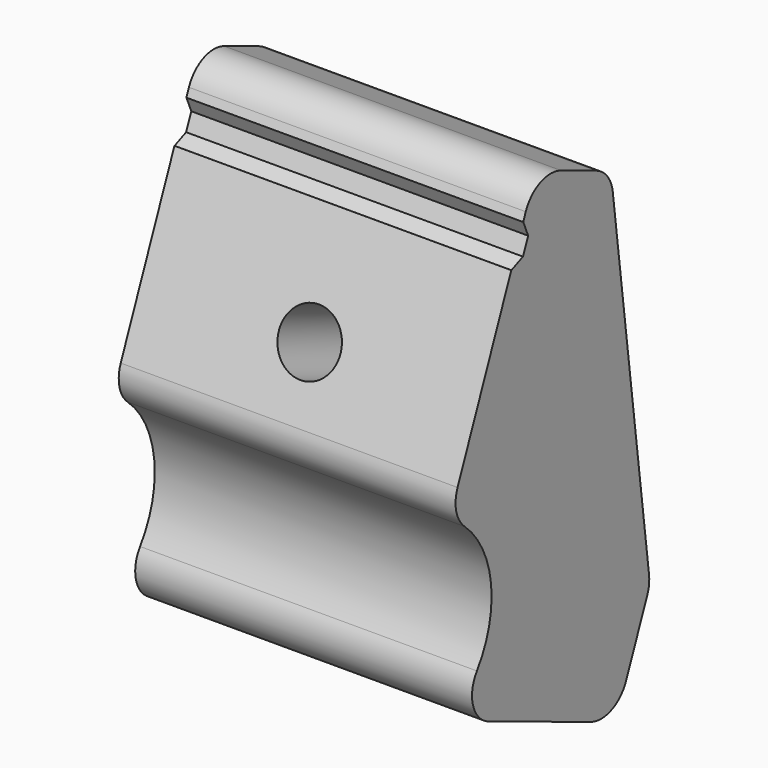
from build123d import *

# Parameters (mm, degrees)
PAD001_DEPTH        = 30
HOLE002_D           = 5.5
HOLE002_CSINK_D     = 10
HOLE002_CSINK_ANGLE = 90
SKETCH004_R         = 6.501169
SKETCH004_R_2       = 5.481256
POCKET_DEPTH        = 19.5081110955
SKETCH007_W         = 3.5
SKETCH007_H         = 30
POCKET002_DEPTH     = 1
CHAMFER_SIZE        = 0.99
FILLET003_R         = 3


with BuildPart() as part:
    # Sketch002 → Pad001 (new body)
    with BuildSketch(Plane.YZ):
        with BuildLine():
            Line((-188.1964293023, 612.8903873712), (-178.5707253545, 636.394612861))
            Line((-170.2420872134, 632.9837791337), (-178.5707253545, 636.394612861))
            Line((-165.8796609268, 598.7789660675), (-170.2420872134, 632.9837791337))
            Line((-169.6694761794, 589.5249236885), (-165.8796609268, 598.7789660675))
            Line((-188.1775609373, 597.1045541936), (-169.6694761794, 589.5249236885))
            ThreePointArc((-188.1775609373, 597.1045541936), (-183.51155378, 605.0030592067), (-188.1964293023, 612.8903873712))
        make_face()
    extrude(amount=PAD001_DEPTH)

    # Hole002 (through all)
    with Locations(Plane(origin=(0, -366.8597668241, 150.2403687946), x_dir=(0, 0.3789815253, 0.9254042379), z_dir=(0, 0.9254042379, -0.3789815253))):
        with Locations((-506.967621, 13.13074), (504.2472658549, 15)):
            CounterSinkHole(HOLE002_D / 2, HOLE002_CSINK_D / 2, counter_sink_angle=HOLE002_CSINK_ANGLE)

    # Sketch004 (on DatumPlane) → Pocket (cut, through all)
    with BuildSketch(Plane(origin=(0, -366.8597668241, 150.2403687946), x_dir=(0, 0.3789815253, 0.9254042379), z_dir=(0, 0.9254042379, -0.3789815253))):
        with Locations((-506.967621, 13.13074)):
            Circle(SKETCH004_R)
        with Locations((504.2472658549, 15)):
            Circle(SKETCH004_R_2)
    extrude(amount=POCKET_DEPTH, mode=Mode.SUBTRACT)

    # Sketch007 (on Face6 of Pocket) → Pocket002 (cut)
    with BuildSketch(Plane(origin=(0, -376.1138092031, 154.0301840472), x_dir=(0, -0.3789815253, -0.9254042379), z_dir=(0, -0.9254042379, 0.3789815253))):
        with Locations((-515.7472658549, 15)):
            Rectangle(SKETCH007_W, SKETCH007_H)
    extrude(amount=-POCKET002_DEPTH, mode=Mode.SUBTRACT)

    # Chamfer
    chamfer_edges = [part.edges().sort_by_distance(p)[0] for p in [
        (15, -179.066502, 632.545365),
        (15, -180.392937, 629.306451),
    ]]
    chamfer(chamfer_edges, length=CHAMFER_SIZE)

    # Fillet003
    fillet003_edges = [part.edges().sort_by_distance(p)[0] for p in [
        (15, -188.177561, 597.104554),
        (15, -169.669476, 589.524924),
        (15, -165.879661, 598.778966),
        (15, -170.242087, 632.983779),
        (15, -178.570725, 636.394613),
        (15, -188.196429, 612.890387),
    ]]
    fillet(fillet003_edges, radius=FILLET003_R)


solid = part.part
